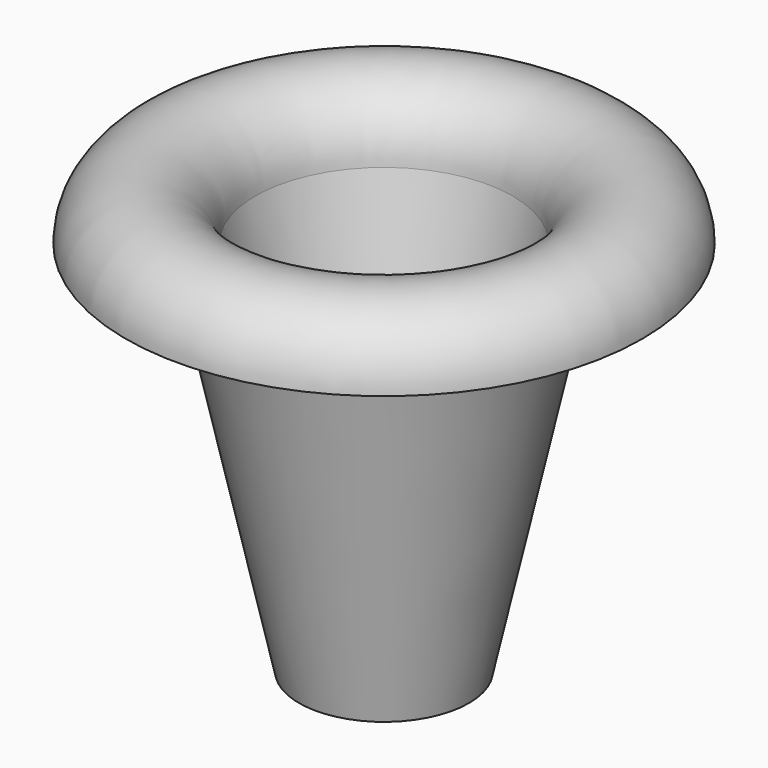
from build123d import *


with BuildPart() as f1:
    # F0 (on Front) → F1 (revolve)
    with BuildSketch(Plane.XZ):
        with BuildLine():
            Line((16.823175, 27.459773), (19.795203, 27.459773))
            ThreePointArc((19.795203, 27.459773), (14.826528, 32.428447), (9.857854, 27.459773))
            Line((9.857854, 27.459773), (4.83705, 4.592385))
            Line((4.83705, 4.592385), (3.514682, -1.430375))
            Line((3.514682, -1.430375), (6.514682, -1.430375))
            Line((6.514682, -1.430375), (12.833074, 27.346913))
            ThreePointArc((12.833074, 27.346913), (14.770076, 29.455621), (16.823175, 27.459773))
        make_face()
    revolve(axis=Axis((0, 0, 4.655987), (0, 0, 1)))


solid = f1.part
